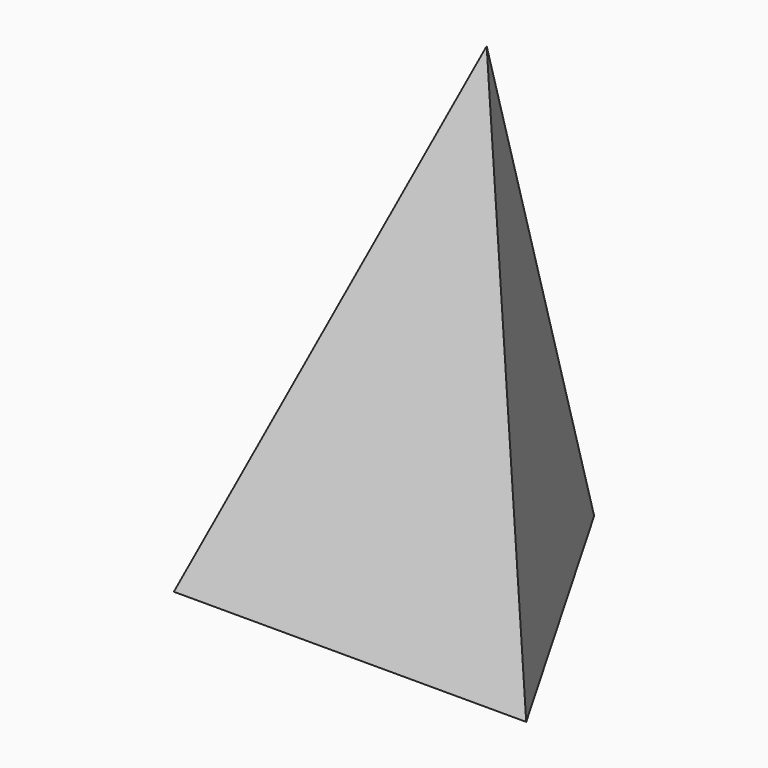
from build123d import *


with BuildPart() as f3:
    # F0 (on Top) → F3 section 0
    with BuildSketch(Plane.XY, mode=Mode.PRIVATE) as f3_s0:
        Polygon((95.022165, -72.876718), (0, 91.706499), (-95.022165, -72.876718), align=None)
    loft([f3_s0.sketch, Vertex(1.748851, 17.051311, 254)])


solid = f3.part
